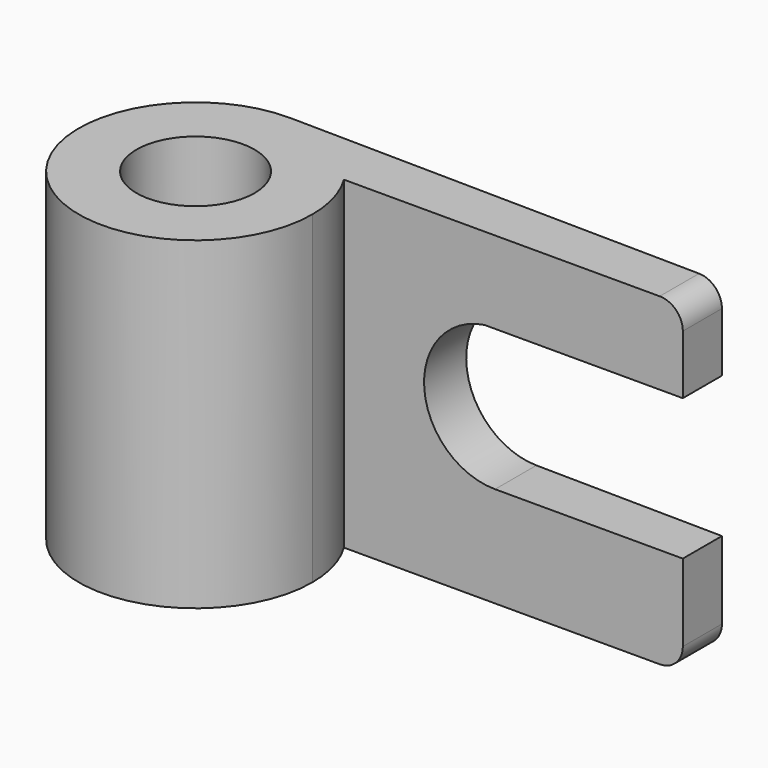
from build123d import *

# Parameters (mm, degrees)
F0_R     = 12.748205
F1_DEPTH = 70
F3_DEPTH = 25
F4_R     = 5


with BuildPart() as f1:
    # F0 (on Top) → F1 (new body)
    with BuildSketch(Plane.XY):
        with BuildLine():
            ThreePointArc((-44.670311, 31.952813), (-63.008855, -10.972032), (-19.818391, 6.731877))
            ThreePointArc((-19.818391, 6.731877), (-20.780013, 13.630178), (-23.591557, 20.002501))
            ThreePointArc((-23.591557, 20.002501), (-32.601998, 28.674496), (-44.670311, 31.952813))
        make_face()
        with Locations((-45.042067, 6.731877)):
            Circle(F0_R, mode=Mode.SUBTRACT)
        with BuildLine():
            ThreePointArc((-44.670311, 31.952813), (-32.601998, 28.674496), (-23.591557, 20.002501))
            Line((-23.591557, 20.002501), (49.636481, 20.002501))
            Line((49.636481, 20.002501), (49.636481, 30.562731))
            Line((49.636481, 30.562731), (-44.670311, 31.952813))
        make_face()
    extrude(amount=F1_DEPTH)

    # F2 (on face) → F3 (cut)
    with BuildSketch(Plane.XZ.offset(-20.002501)):
        with BuildLine():
            Line((49.636481, 21.729333), (49.636481, 52.236743))
            Line((49.636481, 52.236743), (6.763435, 52.236743))
            ThreePointArc((6.763435, 52.236743), (-6.231204, 35.915426), (9.065881, 21.729333))
            Line((9.065881, 21.729333), (49.636481, 21.729333))
        make_face()
    extrude(amount=-F3_DEPTH, mode=Mode.SUBTRACT)

    # F4
    f4_edges = [f1.edges().sort_by_distance(p)[0] for p in [
        (49.636481, 25.282616, 70),
        (49.636481, 25.282616, 0),
    ]]
    fillet(f4_edges, radius=F4_R)


solid = f1.part
